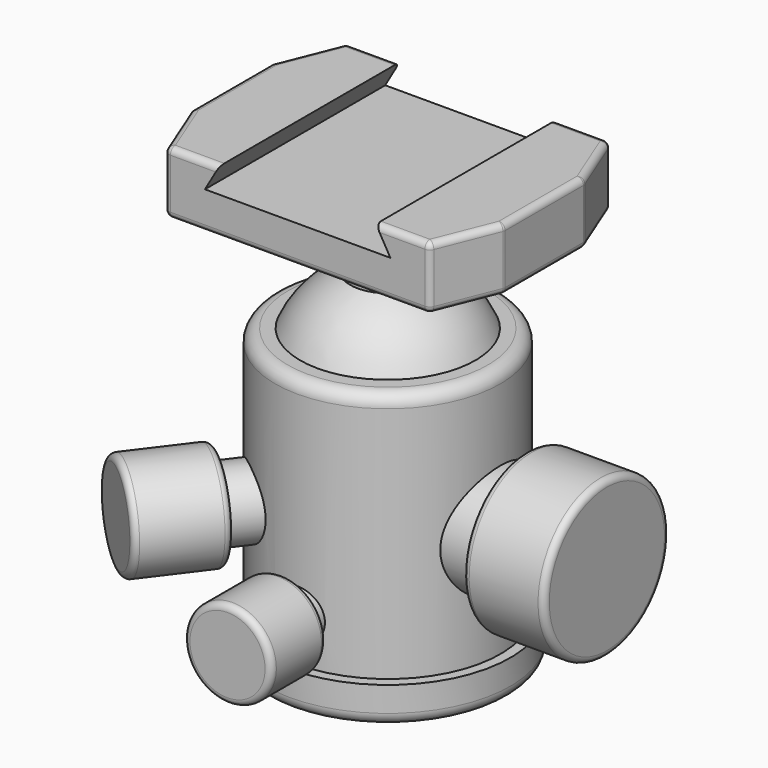
from build123d import *

# Parameters (mm, degrees)
F2_W        = 63.5
F2_H        = 45.72
F3_DEPTH    = 12.7
F5_DEPTH    = 47.753
F6_W        = 26.67
F6_H        = 5.08
F8_W        = 27.94
F8_H        = 11.43
F11_W       = 27.94
F11_H       = 6.985
F13_R       = 2.54
F14_R       = 1.27
F15_SIZE2   = 5.08
F15_SIZE    = 12.7
F15_2_SIZE2 = 5.08
F15_2_SIZE  = 12.7
F16_R       = 1.27


with BuildPart() as f1:
    # F0 (on Right) → F1 (revolve)
    with BuildSketch(Plane.YZ):
        with BuildLine():
            Line((-24.892, 0), (0, 0))
            Line((0, 0), (0, 78.74))
            Line((0, 78.74), (-7.62, 78.74))
            Line((-7.62, 78.74), (-7.62, 68.58))
            ThreePointArc((-7.62, 68.58), (-13.6783186101, 64.4783186101), (-17.78, 58.42))
            Line((-17.78, 58.42), (-22.86, 58.42))
            Line((-22.86, 58.42), (-22.86, 7.62))
            Line((-22.86, 7.62), (-24.892, 7.62))
            Line((-24.892, 7.62), (-24.892, 0))
        make_face()
    revolve(axis=Axis((0, 0, 27.3554707607), (0, 0, 1)))

    # F2 (on face) → F3 (join)
    with BuildSketch(Plane.XY.offset(78.74)):
        Rectangle(F2_W, F2_H)
    extrude(amount=F3_DEPTH)

    # F4 (on face) → F5 (cut, through all)
    with BuildSketch(Plane.XZ.offset(22.86)):
        Polygon((-15.875, 91.44), (-18.8079393675, 86.36), (18.8079393675, 86.36), (15.875, 91.44), align=None)
    extrude(amount=-F5_DEPTH, mode=Mode.SUBTRACT)

    # F6 (on Right) → F7 (revolve)
    with BuildSketch(Plane.YZ):
        Polygon((-26.67, 16.51), (-26.67, 21.59), (-26.67, 25.4), (-40.64, 25.4), (-40.64, 16.51), align=None)
        with Locations((-13.335, 19.05)):
            Rectangle(F6_W, F6_H)
    revolve(axis=Axis((0, -20.32, 16.51), (0, -1, 0)))

    # F8 (on Front) → F9 (revolve)
    with BuildSketch(Plane.XZ):
        Polygon((27.94, 45.72), (27.94, 41.275), (27.94, 29.845), (44.45, 29.845), (44.45, 45.72), align=None)
        with Locations((13.97, 35.56)):
            Rectangle(F8_W, F8_H)
    revolve(axis=Axis((30.3540631865, 0, 29.845), (1, 0, 0)))

    # F11 (on line) → F12 (revolve)
    with BuildSketch(Plane(origin=(0, 0, 0), x_dir=(-0.6018150232, -0.79863551, 0), z_dir=(-0.79863551, 0.6018150232, 0))):
        with Locations((13.97, 33.9725)):
            Rectangle(F11_W, F11_H)
        Polygon((27.94, 40.64), (27.94, 37.465), (27.94, 30.48), (44.45, 30.48), (44.45, 40.64), align=None)
    revolve(axis=Axis((-13.3753388896, -17.7496742108, 30.48), (-0.6018150232, -0.79863551, 0)))

    # F13
    f13_edges = [f1.edges().sort_by_distance(p)[0] for p in [
        (0, 24.892, 0),
        (0, 22.86, 58.42),
    ]]
    fillet(f13_edges, radius=F13_R)

    # F14
    f14_edges = [f1.edges().sort_by_distance(p)[0] for p in [
        (-26.750678, -35.499348, 20.32),
        (0, -40.64, 7.62),
        (44.45, 0, 13.97),
        (27.94, 0, 13.97),
        (0, -26.67, 7.62),
        (-16.814712, -22.313876, 20.32),
    ]]
    fillet(f14_edges, radius=F14_R)

    # F15
    f15_edges = [f1.edges().sort_by_distance(p)[0] for p in [
        (-31.75, 22.86, 85.09),
        (-31.75, -22.86, 85.09),
    ]]
    f15_side = f1.faces().sort_by_distance((-31.75, 0, 85.09))[0]
    chamfer(f15_edges, length=F15_SIZE, length2=F15_SIZE2, reference=f15_side)

    # F15#2
    f15_2_edges = [f1.edges().sort_by_distance(p)[0] for p in [
        (31.75, -22.86, 85.09),
        (31.75, 22.86, 85.09),
    ]]
    f15_2_side = f1.faces().sort_by_distance((31.75, 0, 85.09))[0]
    chamfer(f15_2_edges, length=F15_2_SIZE, length2=F15_2_SIZE2, reference=f15_2_side)

    # F16
    f16_edges = [f1.edges().sort_by_distance(p)[0] for p in [
        (-31.75, 0, 78.74),
        (-31.75, 10.16, 85.09),
        (-31.75, -10.16, 85.09),
        (-31.75, 0, 91.44),
        (-29.21, -16.51, 78.74),
        (-26.67, -22.86, 85.09),
        (-29.21, -16.51, 91.44),
        (-29.21, 16.51, 78.74),
        (-26.67, 22.86, 85.09),
        (-29.21, 16.51, 91.44),
        (29.21, 16.51, 78.74),
        (31.75, 10.16, 85.09),
        (26.67, 22.86, 85.09),
        (29.21, 16.51, 91.44),
        (31.75, 0, 78.74),
        (31.75, -10.16, 85.09),
        (31.75, 0, 91.44),
        (29.21, -16.51, 78.74),
        (26.67, -22.86, 85.09),
        (29.21, -16.51, 91.44),
        (-21.2725, -22.86, 91.44),
        (21.2725, -22.86, 91.44),
        (21.2725, 22.86, 91.44),
        (-21.2725, 22.86, 91.44),
        (0, 22.86, 78.74),
        (0, -22.86, 78.74),
        (0, 7.62, 78.74),
    ]]
    fillet(f16_edges, radius=F16_R)


solid = f1.part
